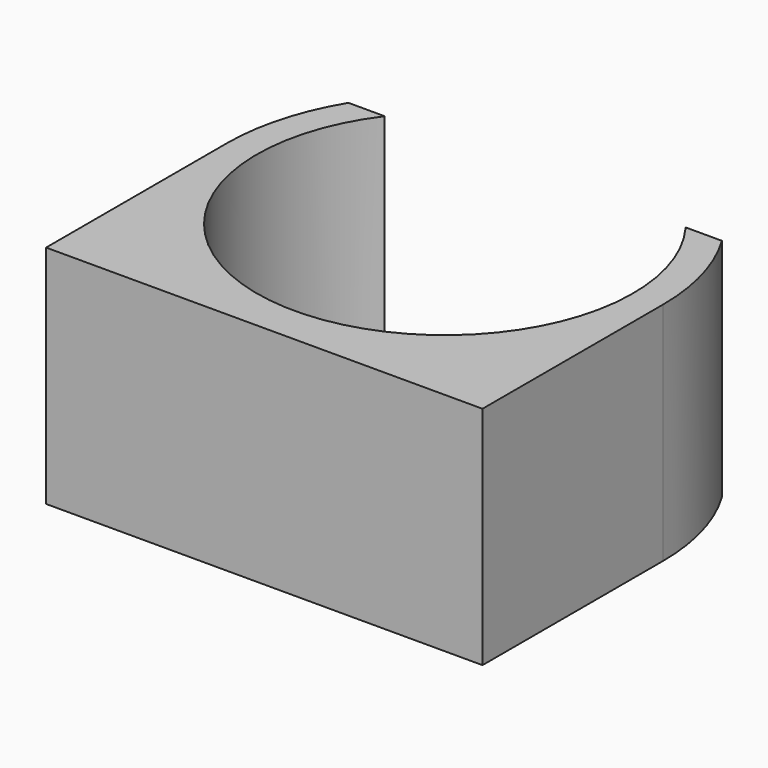
from build123d import *

# Parameters (mm, degrees)
F1_DEPTH = 15


with BuildPart() as f1:
    # F0 (on Top) → F1 (new body)
    with BuildSketch(Plane.XY):
        with BuildLine():
            ThreePointArc((24.5, 22.5), (14.5, 2.5), (4.5, 22.5))
            Line((4.5, 22.5), (2.090326, 22.5))
            ThreePointArc((2.090326, 22.5), (0.532354, 18.892925), (0, 15))
            Line((0, 15), (0, 0))
            Line((0, 0), (29, 0))
            Line((29, 0), (29, 15))
            ThreePointArc((29, 15), (28.467646, 18.892925), (26.909674, 22.5))
            Line((26.909674, 22.5), (24.5, 22.5))
        make_face()
    extrude(amount=F1_DEPTH)


solid = f1.part
